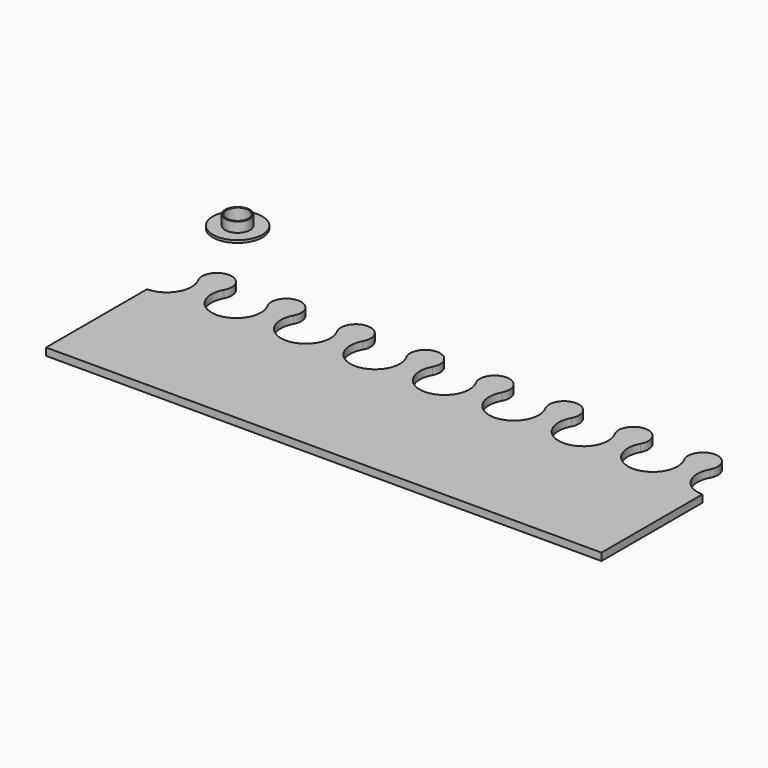
from build123d import *

# Parameters (mm, degrees)
F1_DEPTH = 3
F2_R     = 10
F2_R_2   = 5
F3_DEPTH = 1
F2_R_3   = 4.5
F4_DEPTH = 5


with BuildPart() as f1:
    # F0 (on Top) → F1 (new body)
    with BuildSketch(Plane.XY):
        with BuildLine():
            ThreePointArc((29.75, 0.968246), (29.614299, -8.951748), (21, -13.872983))
            Line((21, -13.872983), (21, -64.758845))
            Line((21, -64.758845), (245, -64.758845))
            Line((245, -64.758845), (245, -13.872983))
            ThreePointArc((245, -13.872983), (236.385701, -8.951748), (236.25, 0.968246))
            ThreePointArc((236.25, 0.968246), (231, 9.872983), (225.75, 0.968246))
            ThreePointArc((225.75, 0.968246), (217, -13.872983), (208.25, 0.968246))
            ThreePointArc((208.25, 0.968246), (203, 9.872983), (197.75, 0.968246))
            ThreePointArc((197.75, 0.968246), (189, -13.872983), (180.25, 0.968246))
            ThreePointArc((180.25, 0.968246), (175, 9.872983), (169.75, 0.968246))
            ThreePointArc((169.75, 0.968246), (161, -13.872983), (152.25, 0.968246))
            ThreePointArc((152.25, 0.968246), (147, 9.872983), (141.75, 0.968246))
            ThreePointArc((141.75, 0.968246), (133, -13.872983), (124.25, 0.968246))
            ThreePointArc((124.25, 0.968246), (119, 9.872983), (113.75, 0.968246))
            ThreePointArc((113.75, 0.968246), (105, -13.872983), (96.25, 0.968246))
            ThreePointArc((96.25, 0.968246), (91, 9.872983), (85.75, 0.968246))
            ThreePointArc((85.75, 0.968246), (77, -13.872983), (68.25, 0.968246))
            ThreePointArc((68.25, 0.968246), (63, 9.872983), (57.75, 0.968246))
            ThreePointArc((57.75, 0.968246), (49, -13.872983), (40.25, 0.968246))
            ThreePointArc((40.25, 0.968246), (35, 9.872983), (29.75, 0.968246))
        make_face()
    extrude(amount=F1_DEPTH)


with BuildPart() as f3:
    # F2 (on Top) → F3 (new body)
    with BuildSketch(Plane.XY):
        with Locations((13.755906, 40.858835)):
            Circle(F2_R)
        with Locations((13.755906, 40.858835)):
            Circle(F2_R_2, mode=Mode.SUBTRACT)
    extrude(amount=F3_DEPTH)

    # F2 (on Top) → F4 (join)
    with BuildSketch(Plane.XY):
        with Locations((13.755906, 40.858835)):
            Circle(F2_R_2)
        with Locations((13.755906, 40.858835)):
            Circle(F2_R_3, mode=Mode.SUBTRACT)
    extrude(amount=F4_DEPTH)


solid = Compound([f1.part, f3.part])
